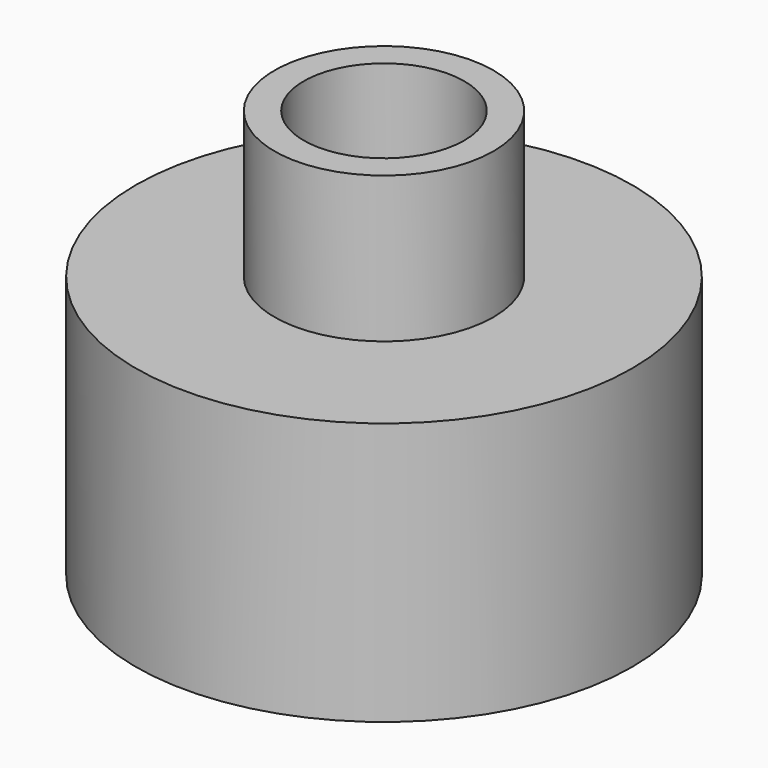
from build123d import *

# Parameters (mm, degrees)
SKETCH_R     = 8.5
PAD_DEPTH    = 9
SKETCH001_R  = 3.75
PAD001_DEPTH = 5
SKETCH002_R  = 2.75
POCKET_DEPTH = 14.001


with BuildPart() as part:
    # Sketch → Pad (new body)
    with BuildSketch(Plane.XY):
        Circle(SKETCH_R)
    extrude(amount=PAD_DEPTH)

    # Sketch001 (on Face3 of Pad) → Pad001 (join)
    with BuildSketch(Plane.XY.offset(9)):
        Circle(SKETCH001_R)
    extrude(amount=PAD001_DEPTH)

    # Sketch002 (on Face5 of Pad001) → Pocket (cut, through all)
    with BuildSketch(Plane.XY.offset(14)):
        Circle(SKETCH002_R)
    extrude(amount=-POCKET_DEPTH, mode=Mode.SUBTRACT)


solid = part.part
